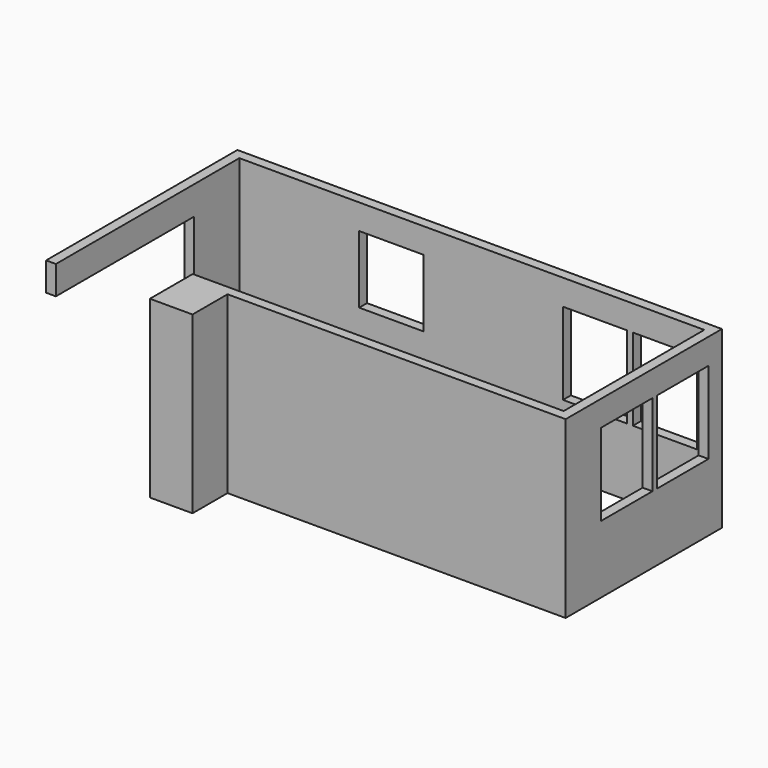
from build123d import *

# Parameters (mm, degrees)
F1_DEPTH = 2438.4
F2_W     = 895.35
F2_H     = 939.8
F2_H_2   = 1143
F3_DEPTH = 136.525
F4_W     = 895.35
F4_H     = 1143
F5_DEPTH = 136.525
F6_W     = 2406.65
F6_H     = 2041.525
F7_DEPTH = 136.525
F8_W     = 457.2
F8_H     = 473.075
F9_DEPTH = 558.8


with BuildPart() as f1:
    # F0 (on Top) → F1 (new body)
    with BuildSketch(Plane.XY):
        Polygon((-2415.824701, -1323.259525), (-2415.824701, 1870.790475), (4061.175299, 1870.790475), (4061.175299, -577.134525), (-1106.196211, -577.134525), (-1106.196211, -713.659525), (-648.996211, -713.659525), (-648.996211, -1186.734525), (-1106.196211, -1186.734525), (-1106.196211, -1323.259525), (-512.471211, -1323.259525), (-512.471211, -713.659525), (4197.700299, -713.659525), (4197.700299, 2007.315475), (-2552.349701, 2007.315475), (-2552.349701, -1323.259525), align=None)
    extrude(amount=F1_DEPTH)

    # F2 (on face) → F3 (cut, through all)
    with BuildSketch(Plane.XZ.offset(-1870.790475)):
        with Locations((-298.099701, 1617.6625)):
            Rectangle(F2_W, F2_H)
        with Locations((2540.350299, 1511.3)):
            Rectangle(F2_W, F2_H_2)
        with Locations((3515.075299, 1511.3)):
            Rectangle(F2_W, F2_H_2)
    extrude(amount=-F3_DEPTH, mode=Mode.SUBTRACT)

    # F4 (on face) → F5 (cut, through all)
    with BuildSketch(Plane(origin=(4061.175299, 0, 0), x_dir=(0, -1, 0), z_dir=(-1, 0, 0))):
        with Locations((-1324.690475, 1511.3)):
            Rectangle(F4_W, F4_H)
        with Locations((-349.965475, 1511.3)):
            Rectangle(F4_W, F4_H)
    extrude(amount=-F5_DEPTH, mode=Mode.SUBTRACT)

    # F6 (on face) → F7 (cut, through all)
    with BuildSketch(Plane(origin=(-2552.349701, 0, 0), x_dir=(0, -1, 0), z_dir=(-1, 0, 0))):
        with Locations((119.934525, 1020.7625)):
            Rectangle(F6_W, F6_H)
    extrude(amount=-F7_DEPTH, mode=Mode.SUBTRACT)

    # F8 (on face) → F9 (join)
    with BuildSketch(Plane.XY.offset(2438.4)):
        with Locations((-877.596211, -950.197025)):
            Rectangle(F8_W, F8_H)
    extrude(amount=-F9_DEPTH)


solid = f1.part
